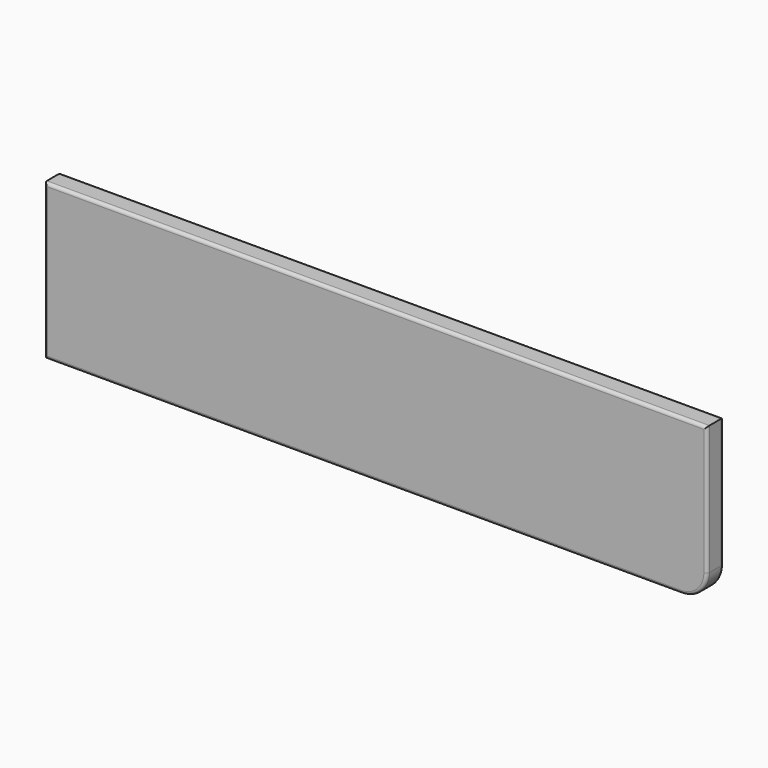
from build123d import *

# Parameters (mm, degrees)
F1_DEPTH = 20
F3_R     = 3


with BuildPart() as f1:
    # F0 (on Front) → F1 (new body)
    with BuildSketch(Plane.XZ):
        with BuildLine():
            Line((249.931585, -20.82393), (-390.068415, -20.82393))
            Line((-390.068415, -20.82393), (-390.068415, -170.82393))
            Line((-390.068415, -170.82393), (224.931585, -170.82393))
            ThreePointArc((224.931585, -170.82393), (242.609255, -163.5016), (249.931585, -145.82393))
            Line((249.931585, -145.82393), (249.931585, -20.82393))
        make_face()
    extrude(amount=F1_DEPTH)

    # F3
    f3_edges = [f1.edges().sort_by_distance(p)[0] for p in [
        (242.609255, 0, -163.5016),
        (249.931585, 0, -83.32393),
        (-70.068415, 0, -20.82393),
        (-390.068415, 0, -95.82393),
        (-82.568415, 0, -170.82393),
        (242.609255, -20, -163.5016),
        (249.931585, -20, -83.32393),
        (-70.068415, -20, -20.82393),
        (-390.068415, -20, -95.82393),
        (-82.568415, -20, -170.82393),
    ]]
    fillet(f3_edges, radius=F3_R)


solid = f1.part
